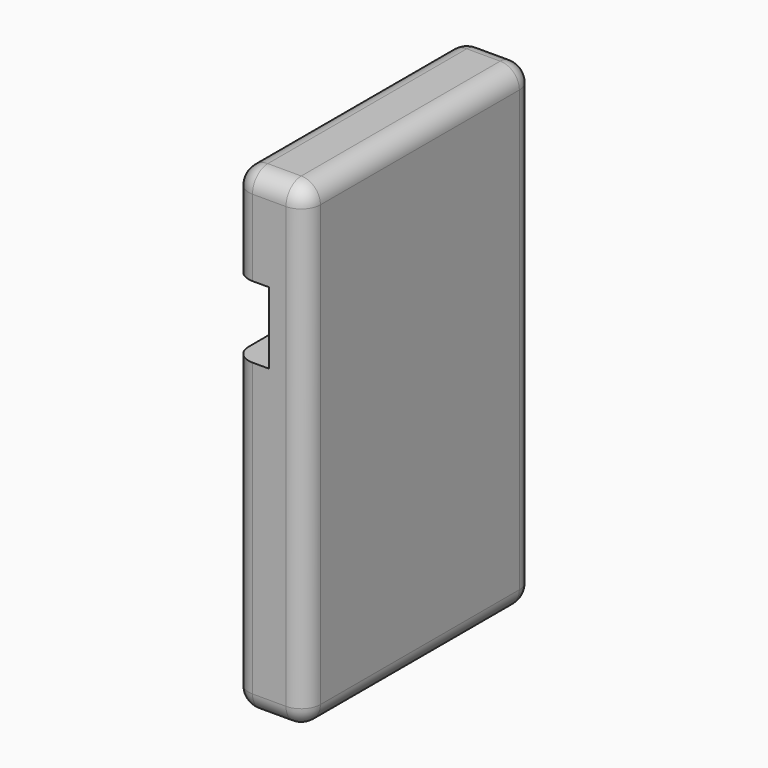
from build123d import *

# Parameters (mm, degrees)
F1_DEPTH = 76.2
F2_R     = 5.08


with BuildPart() as f1:
    # F0 (on Front) → F1 (new body)
    with BuildSketch(Plane.XZ):
        Polygon((27.833259, -57.777375), (27.833259, 69.222625), (8.783259, 69.222625), (8.783259, 43.822625), (18.308259, 43.822625), (18.308259, 24.772625), (8.783259, 24.772625), (8.783259, -57.777375), align=None)
    extrude(amount=F1_DEPTH)

    # F2
    f2_edges = [f1.edges().sort_by_distance(p)[0] for p in [
        (18.308259, -76.2, 69.222625),
        (8.783259, -76.2, 56.522625),
        (27.833259, -76.2, 5.722625),
        (18.308259, -76.2, -57.777375),
        (8.783259, -76.2, -16.502375),
        (8.783259, -38.1, 69.222625),
        (8.783259, -38.1, -57.777375),
        (27.833259, 0, 5.722625),
        (18.308259, 0, 69.222625),
        (18.308259, 0, -57.777375),
        (27.833259, -38.1, 69.222625),
        (27.833259, -38.1, -57.777375),
        (8.783259, 0, 56.522625),
        (8.783259, 0, -16.502375),
    ]]
    fillet(f2_edges, radius=F2_R)


solid = f1.part
